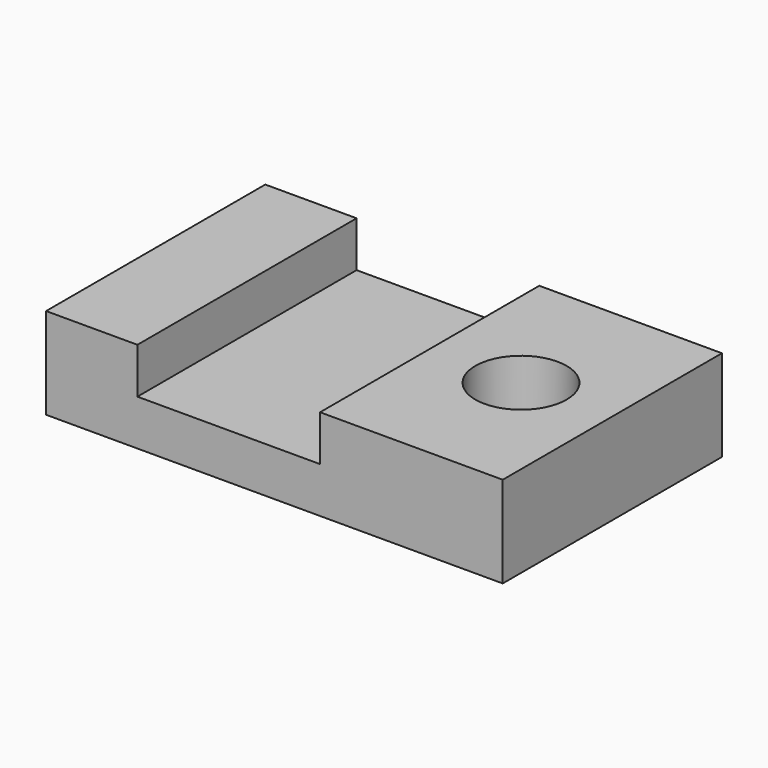
from build123d import *

# Parameters (mm, degrees)
F0_W     = 1
F0_H     = 3
F1_DEPTH = 1
F0_W_2   = 2
F2_DEPTH = 0.5
F0_R     = 0.5
F3_DEPTH = 1


with BuildPart() as f1:
    # F0 (on Top) → F1 (new body)
    with BuildSketch(Plane.XY):
        with Locations((-4.5, 1.5)):
            Rectangle(F0_W, F0_H)
    extrude(amount=F1_DEPTH)

    # F0 (on Top) → F2 (join)
    with BuildSketch(Plane.XY):
        with Locations((-3, 1.5)):
            Rectangle(F0_W_2, F0_H)
    extrude(amount=F2_DEPTH)

    # F0 (on Top) → F3 (join)
    with BuildSketch(Plane.XY):
        with Locations((-1, 1.5)):
            Rectangle(F0_W_2, F0_H)
        with Locations((-1, 1.5)):
            Circle(F0_R, mode=Mode.SUBTRACT)
    extrude(amount=F3_DEPTH)


solid = f1.part
